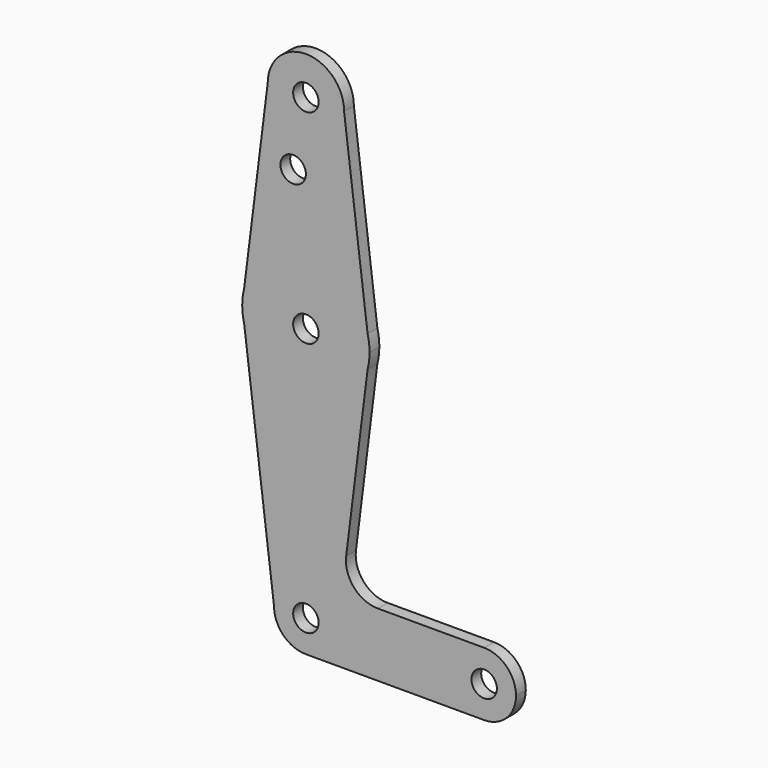
from build123d import *

# Parameters (mm, degrees)
F0_R     = 3.175
F1_DEPTH = 3.048


with BuildPart() as f1:
    # F0 (on Front) → F1 (new body)
    with BuildSketch(Plane.XZ):
        with BuildLine():
            ThreePointArc((0, -7.9375), (5.6126600757, -5.6126600757), (7.9375, 0))
            ThreePointArc((7.9375, 0), (0, 7.9375), (-7.9375, 0))
            ThreePointArc((-7.9375, 0), (-5.6126600757, -5.6126600757), (0, -7.9375))
        make_face()
        Circle(F0_R, mode=Mode.SUBTRACT)
        with BuildLine():
            ThreePointArc((-7.9375, 0), (0, 7.9375), (7.9375, 0))
            ThreePointArc((7.9375, 0), (5.6126600757, -5.6126600757), (0, -7.9375))
            Line((0, -7.9375), (44.45, -7.9375))
            ThreePointArc((44.45, -7.9375), (36.5125, 0), (44.45, 7.9375))
            Line((44.45, 7.9375), (17.9355326938, 7.9375))
            ThreePointArc((17.9355326938, 7.9375), (11.9754412604, 10.6262372618), (10.0467251184, 16.8738009469))
            Line((10.0467251184, 16.8738009469), (15.3865384615, 59.5923076923))
            ThreePointArc((15.3865384615, 59.5923076923), (0, 47.625), (-15.3865384615, 59.5923076923))
            Line((-15.3865384615, 59.5923076923), (-7.9375, 0))
        make_face()
        with BuildLine():
            Line((-15.875, 63.5), (-15.3865384615, 59.5923076923))
            ThreePointArc((-15.3865384615, 59.5923076923), (0, 47.625), (15.3865384615, 59.5923076923))
            Line((15.3865384615, 59.5923076923), (15.875, 63.5))
            Line((15.875, 63.5), (15.3865384615, 67.4076923077))
            ThreePointArc((15.3865384615, 67.4076923077), (0, 79.375), (-15.3865384615, 67.4076923077))
            Line((-15.3865384615, 67.4076923077), (-15.875, 63.5))
        make_face()
        with Locations((0, 63.5)):
            Circle(F0_R, mode=Mode.SUBTRACT)
        with BuildLine():
            ThreePointArc((-15.875, 63.5), (-15.7524112928, 61.5309485884), (-15.3865384615, 59.5923076923))
            Line((-15.3865384615, 59.5923076923), (-15.875, 63.5))
        make_face()
        with BuildLine():
            ThreePointArc((44.45, 7.9375), (36.5125, 0), (44.45, -7.9375))
            ThreePointArc((44.45, -7.9375), (50.0626600757, -5.6126600757), (52.3875, 0))
            ThreePointArc((52.3875, 0), (50.0626600757, 5.6126600757), (44.45, 7.9375))
        make_face()
        with Locations((44.45, 0)):
            Circle(F0_R, mode=Mode.SUBTRACT)
        with BuildLine():
            ThreePointArc((-15.3865384615, 67.4076923077), (-15.7524112928, 65.4690514116), (-15.875, 63.5))
            Line((-15.875, 63.5), (-15.3865384615, 67.4076923077))
        make_face()
        with BuildLine():
            Line((15.875, 63.5), (15.3865384615, 59.5923076923))
            ThreePointArc((15.3865384615, 59.5923076923), (15.7524112928, 61.5309485884), (15.875, 63.5))
        make_face()
        with BuildLine():
            Line((-9.525, 114.3), (-15.3865384615, 67.4076923077))
            ThreePointArc((-15.3865384615, 67.4076923077), (0, 79.375), (15.3865384615, 67.4076923077))
            Line((15.3865384615, 67.4076923077), (9.525, 114.3))
            ThreePointArc((9.525, 114.3), (0, 104.775), (-9.525, 114.3))
        make_face()
        with Locations((-3.175, 97.4431559443)):
            Circle(F0_R, mode=Mode.SUBTRACT)
        with BuildLine():
            Line((15.3865384615, 67.4076923077), (15.875, 63.5))
            ThreePointArc((15.875, 63.5), (15.7524112928, 65.4690514116), (15.3865384615, 67.4076923077))
        make_face()
        with BuildLine():
            ThreePointArc((9.525, 114.3), (0, 123.825), (-9.525, 114.3))
            ThreePointArc((-9.525, 114.3), (0, 104.775), (9.525, 114.3))
        make_face()
        with Locations((0, 114.3)):
            Circle(F0_R, mode=Mode.SUBTRACT)
    extrude(amount=F1_DEPTH)


solid = f1.part
